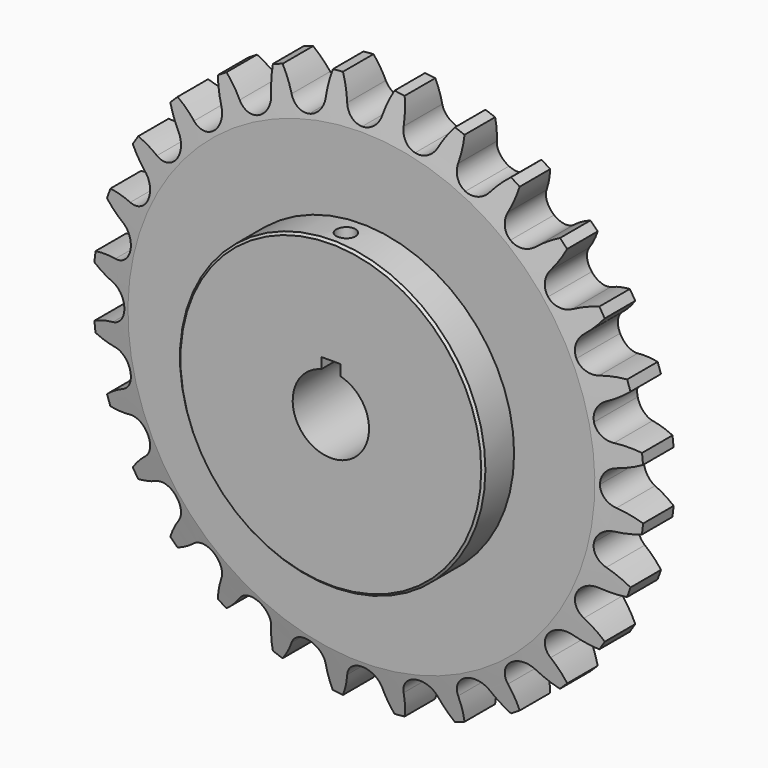
from build123d import *

# Parameters (mm, degrees)
F1_DEPTH  = 9.398
F5_R      = 50.8
F6_DEPTH  = 12.7
F8_DEPTH  = 50.8
F9_SIZE   = 0.762
F10_R     = 3.175
F11_DEPTH = 101.6


with BuildPart() as f1:
    # F0 (on Front) → F1 (new body, symmetric)
    with BuildSketch(Plane.XZ):
        with BuildLine():
            ThreePointArc((12.96248, 82.944234), (12.711263, 86.939421), (11.961569, 90.871671))
            ThreePointArc((11.961569, 90.871671), (10.270424, 91.09503), (8.575362, 91.286402))
            ThreePointArc((8.575362, 91.286402), (6.959333, 87.604769), (5.819345, 83.749073))
            ThreePointArc((5.819345, 83.749073), (3.721611, 80.410548), (0, 79.1083))
            ThreePointArc((0, 79.1083), (-3.721611, 80.410548), (-5.819345, 83.749073))
            ThreePointArc((-5.819345, 83.749073), (-6.953276, 87.58819), (-8.559182, 91.255027))
            ThreePointArc((-8.559182, 91.255027), (-10.257628, 91.096471), (-11.952775, 90.905859))
            ThreePointArc((-11.952775, 90.905859), (-12.709047, 86.956932), (-12.96248, 82.944234))
            ThreePointArc((-12.96248, 82.944234), (-14.264728, 79.222624), (-17.603253, 77.12489))
            ThreePointArc((-17.603253, 77.12489), (-21.521332, 77.566351), (-24.309363, 80.354382))
            ThreePointArc((-24.309363, 80.354382), (-26.269149, 83.844922), (-28.650739, 87.062476))
            ThreePointArc((-28.650739, 87.062476), (-30.27132, 86.529956), (-31.881551, 85.966917))
            ThreePointArc((-31.881551, 85.966917), (-31.740143, 81.948711), (-31.094312, 77.980226))
            ThreePointArc((-31.094312, 77.980226), (-31.535774, 74.062147), (-34.323805, 71.274115))
            ThreePointArc((-34.323805, 71.274115), (-38.241884, 70.832654), (-41.580409, 72.930388))
            ThreePointArc((-41.580409, 72.930388), (-44.267777, 75.897319), (-47.305629, 78.504249))
            ThreePointArc((-47.305629, 78.504249), (-48.767081, 77.624467), (-50.211653, 76.717234))
            ThreePointArc((-50.211653, 76.717234), (-49.179655, 72.83124), (-47.666946, 69.105964))
            ThreePointArc((-47.666946, 69.105964), (-47.225484, 65.187884), (-49.323218, 61.849359))
            ThreePointArc((-49.323218, 61.849359), (-53.044829, 60.547112), (-56.76644, 61.849359))
            ThreePointArc((-56.76644, 61.849359), (-60.046634, 64.143908), (-63.588417, 66.009491))
            ThreePointArc((-63.588417, 66.009491), (-64.817457, 64.826563), (-66.023932, 63.620629))
            ThreePointArc((-66.023932, 63.620629), (-64.153094, 60.061706), (-61.849359, 56.76644))
            ThreePointArc((-61.849359, 56.76644), (-60.547112, 53.044829), (-61.849359, 49.323218))
            ThreePointArc((-61.849359, 49.323218), (-65.187884, 47.225484), (-69.105964, 47.666946))
            ThreePointArc((-69.105964, 47.666946), (-72.814502, 49.174053), (-76.682616, 50.204741))
            ThreePointArc((-76.682616, 50.204741), (-77.617616, 48.777985), (-78.525496, 47.33382))
            ThreePointArc((-78.525496, 47.33382), (-75.909628, 44.280427), (-72.930388, 41.580409))
            ThreePointArc((-72.930388, 41.580409), (-70.832654, 38.241884), (-71.274115, 34.323805))
            ThreePointArc((-71.274115, 34.323805), (-74.062147, 31.535774), (-77.980226, 31.094312))
            ThreePointArc((-77.980226, 31.094312), (-81.931146, 31.738406), (-85.931629, 31.882516))
            ThreePointArc((-85.931629, 31.882516), (-86.525703, 30.283474), (-87.089464, 28.673495))
            ThreePointArc((-87.089464, 28.673495), (-83.859738, 26.278743), (-80.354382, 24.309363))
            ThreePointArc((-80.354382, 24.309363), (-77.566351, 21.521332), (-77.12489, 17.603253))
            ThreePointArc((-77.12489, 17.603253), (-79.222624, 14.264728), (-82.944234, 12.96248))
            ThreePointArc((-82.944234, 12.96248), (-86.939421, 12.711263), (-90.871671, 11.961569))
            ThreePointArc((-90.871671, 11.961569), (-91.09503, 10.270424), (-91.286402, 8.575362))
            ThreePointArc((-91.286402, 8.575362), (-87.604769, 6.959333), (-83.749073, 5.819345))
            ThreePointArc((-83.749073, 5.819345), (-80.410548, 3.721611), (-79.1083, 0))
            ThreePointArc((-79.1083, 0), (-80.410548, -3.721611), (-83.749073, -5.819345))
            ThreePointArc((-83.749073, -5.819345), (-87.58819, -6.953276), (-91.255027, -8.559182))
            ThreePointArc((-91.255027, -8.559182), (-91.096471, -10.257628), (-90.905859, -11.952775))
            ThreePointArc((-90.905859, -11.952775), (-86.956932, -12.709047), (-82.944234, -12.96248))
            ThreePointArc((-82.944234, -12.96248), (-79.222624, -14.264728), (-77.12489, -17.603253))
            ThreePointArc((-77.12489, -17.603253), (-77.566351, -21.521332), (-80.354382, -24.309363))
            ThreePointArc((-80.354382, -24.309363), (-83.844922, -26.269149), (-87.062476, -28.650739))
            ThreePointArc((-87.062476, -28.650739), (-86.529956, -30.27132), (-85.966917, -31.881551))
            ThreePointArc((-85.966917, -31.881551), (-81.948711, -31.740143), (-77.980226, -31.094312))
            ThreePointArc((-77.980226, -31.094312), (-74.062147, -31.535774), (-71.274115, -34.323805))
            ThreePointArc((-71.274115, -34.323805), (-70.832654, -38.241884), (-72.930388, -41.580409))
            ThreePointArc((-72.930388, -41.580409), (-75.897319, -44.267777), (-78.504249, -47.305629))
            ThreePointArc((-78.504249, -47.305629), (-77.624467, -48.767081), (-76.717234, -50.211653))
            ThreePointArc((-76.717234, -50.211653), (-72.83124, -49.179655), (-69.105964, -47.666946))
            ThreePointArc((-69.105964, -47.666946), (-65.187884, -47.225484), (-61.849359, -49.323218))
            ThreePointArc((-61.849359, -49.323218), (-60.547112, -53.044829), (-61.849359, -56.76644))
            ThreePointArc((-61.849359, -56.76644), (-64.143908, -60.046634), (-66.009491, -63.588417))
            ThreePointArc((-66.009491, -63.588417), (-64.826563, -64.817457), (-63.620629, -66.023932))
            ThreePointArc((-63.620629, -66.023932), (-60.061706, -64.153094), (-56.76644, -61.849359))
            ThreePointArc((-56.76644, -61.849359), (-53.044829, -60.547112), (-49.323218, -61.849359))
            ThreePointArc((-49.323218, -61.849359), (-47.225484, -65.187884), (-47.666946, -69.105964))
            ThreePointArc((-47.666946, -69.105964), (-49.174053, -72.814502), (-50.204741, -76.682616))
            ThreePointArc((-50.204741, -76.682616), (-48.777985, -77.617616), (-47.33382, -78.525496))
            ThreePointArc((-47.33382, -78.525496), (-44.280427, -75.909628), (-41.580409, -72.930388))
            ThreePointArc((-41.580409, -72.930388), (-38.241884, -70.832654), (-34.323805, -71.274115))
            ThreePointArc((-34.323805, -71.274115), (-31.535774, -74.062147), (-31.094312, -77.980226))
            ThreePointArc((-31.094312, -77.980226), (-31.738406, -81.931146), (-31.882516, -85.931629))
            ThreePointArc((-31.882516, -85.931629), (-30.283474, -86.525703), (-28.673495, -87.089464))
            ThreePointArc((-28.673495, -87.089464), (-26.278743, -83.859738), (-24.309363, -80.354382))
            ThreePointArc((-24.309363, -80.354382), (-21.521332, -77.566351), (-17.603253, -77.12489))
            ThreePointArc((-17.603253, -77.12489), (-14.264728, -79.222624), (-12.96248, -82.944234))
            ThreePointArc((-12.96248, -82.944234), (-12.711263, -86.939421), (-11.961569, -90.871671))
            ThreePointArc((-11.961569, -90.871671), (-10.270424, -91.09503), (-8.575362, -91.286402))
            ThreePointArc((-8.575362, -91.286402), (-6.959333, -87.604769), (-5.819345, -83.749073))
            ThreePointArc((-5.819345, -83.749073), (-3.721611, -80.410548), (0, -79.1083))
            ThreePointArc((0, -79.1083), (3.721611, -80.410548), (5.819345, -83.749073))
            ThreePointArc((5.819345, -83.749073), (6.953276, -87.58819), (8.559182, -91.255027))
            ThreePointArc((8.559182, -91.255027), (10.257628, -91.096471), (11.952775, -90.905859))
            ThreePointArc((11.952775, -90.905859), (12.709047, -86.956932), (12.96248, -82.944234))
            ThreePointArc((12.96248, -82.944234), (14.264728, -79.222624), (17.603253, -77.12489))
            ThreePointArc((17.603253, -77.12489), (21.521332, -77.566351), (24.309363, -80.354382))
            ThreePointArc((24.309363, -80.354382), (26.269149, -83.844922), (28.650739, -87.062476))
            ThreePointArc((28.650739, -87.062476), (30.27132, -86.529956), (31.881551, -85.966917))
            ThreePointArc((31.881551, -85.966917), (31.740143, -81.948711), (31.094312, -77.980226))
            ThreePointArc((31.094312, -77.980226), (31.535774, -74.062147), (34.323805, -71.274115))
            ThreePointArc((34.323805, -71.274115), (38.241884, -70.832654), (41.580409, -72.930388))
            ThreePointArc((41.580409, -72.930388), (44.267777, -75.897319), (47.305629, -78.504249))
            ThreePointArc((47.305629, -78.504249), (48.767081, -77.624467), (50.211653, -76.717234))
            ThreePointArc((50.211653, -76.717234), (49.179655, -72.83124), (47.666946, -69.105964))
            ThreePointArc((47.666946, -69.105964), (47.225484, -65.187884), (49.323218, -61.849359))
            ThreePointArc((49.323218, -61.849359), (53.044829, -60.547112), (56.76644, -61.849359))
            ThreePointArc((56.76644, -61.849359), (60.046634, -64.143908), (63.588417, -66.009491))
            ThreePointArc((63.588417, -66.009491), (64.817457, -64.826563), (66.023932, -63.620629))
            ThreePointArc((66.023932, -63.620629), (64.153094, -60.061706), (61.849359, -56.76644))
            ThreePointArc((61.849359, -56.76644), (60.547112, -53.044829), (61.849359, -49.323218))
            ThreePointArc((61.849359, -49.323218), (65.187884, -47.225484), (69.105964, -47.666946))
            ThreePointArc((69.105964, -47.666946), (72.814502, -49.174053), (76.682616, -50.204741))
            ThreePointArc((76.682616, -50.204741), (77.617616, -48.777985), (78.525496, -47.33382))
            ThreePointArc((78.525496, -47.33382), (75.909628, -44.280427), (72.930388, -41.580409))
            ThreePointArc((72.930388, -41.580409), (70.832654, -38.241884), (71.274115, -34.323805))
            ThreePointArc((71.274115, -34.323805), (74.062147, -31.535774), (77.980226, -31.094312))
            ThreePointArc((77.980226, -31.094312), (81.931146, -31.738406), (85.931629, -31.882516))
            ThreePointArc((85.931629, -31.882516), (86.525703, -30.283474), (87.089464, -28.673495))
            ThreePointArc((87.089464, -28.673495), (83.859738, -26.278743), (80.354382, -24.309363))
            ThreePointArc((80.354382, -24.309363), (77.566351, -21.521332), (77.12489, -17.603253))
            ThreePointArc((77.12489, -17.603253), (79.222624, -14.264728), (82.944234, -12.96248))
            ThreePointArc((82.944234, -12.96248), (86.939421, -12.711263), (90.871671, -11.961569))
            ThreePointArc((90.871671, -11.961569), (91.09503, -10.270424), (91.286402, -8.575362))
            ThreePointArc((91.286402, -8.575362), (87.604769, -6.959333), (83.749073, -5.819345))
            ThreePointArc((83.749073, -5.819345), (80.410548, -3.721611), (79.1083, 0))
            ThreePointArc((79.1083, 0), (80.410548, 3.721611), (83.749073, 5.819345))
            ThreePointArc((83.749073, 5.819345), (87.58819, 6.953276), (91.255027, 8.559182))
            ThreePointArc((91.255027, 8.559182), (91.096471, 10.257628), (90.905859, 11.952775))
            ThreePointArc((90.905859, 11.952775), (86.956932, 12.709047), (82.944234, 12.96248))
            ThreePointArc((82.944234, 12.96248), (79.222624, 14.264728), (77.12489, 17.603253))
            ThreePointArc((77.12489, 17.603253), (77.566351, 21.521332), (80.354382, 24.309363))
            ThreePointArc((80.354382, 24.309363), (83.844922, 26.269149), (87.062476, 28.650739))
            ThreePointArc((87.062476, 28.650739), (86.529956, 30.27132), (85.966917, 31.881551))
            ThreePointArc((85.966917, 31.881551), (81.948711, 31.740143), (77.980226, 31.094312))
            ThreePointArc((77.980226, 31.094312), (74.062147, 31.535774), (71.274115, 34.323805))
            ThreePointArc((71.274115, 34.323805), (70.832654, 38.241884), (72.930388, 41.580409))
            ThreePointArc((72.930388, 41.580409), (75.897319, 44.267777), (78.504249, 47.305629))
            ThreePointArc((78.504249, 47.305629), (77.624467, 48.767081), (76.717234, 50.211653))
            ThreePointArc((76.717234, 50.211653), (72.83124, 49.179655), (69.105964, 47.666946))
            ThreePointArc((69.105964, 47.666946), (65.187884, 47.225484), (61.849359, 49.323218))
            ThreePointArc((61.849359, 49.323218), (60.547112, 53.044829), (61.849359, 56.76644))
            ThreePointArc((61.849359, 56.76644), (64.143908, 60.046634), (66.009491, 63.588417))
            ThreePointArc((66.009491, 63.588417), (64.826563, 64.817457), (63.620629, 66.023932))
            ThreePointArc((63.620629, 66.023932), (60.061706, 64.153094), (56.76644, 61.849359))
            ThreePointArc((56.76644, 61.849359), (53.044829, 60.547112), (49.323218, 61.849359))
            ThreePointArc((49.323218, 61.849359), (47.225484, 65.187884), (47.666946, 69.105964))
            ThreePointArc((47.666946, 69.105964), (49.174053, 72.814502), (50.204741, 76.682616))
            ThreePointArc((50.204741, 76.682616), (48.777985, 77.617616), (47.33382, 78.525496))
            ThreePointArc((47.33382, 78.525496), (44.280427, 75.909628), (41.580409, 72.930388))
            ThreePointArc((41.580409, 72.930388), (38.241884, 70.832654), (34.323805, 71.274115))
            ThreePointArc((34.323805, 71.274115), (31.535774, 74.062147), (31.094312, 77.980226))
            ThreePointArc((31.094312, 77.980226), (31.738406, 81.931146), (31.882516, 85.931629))
            ThreePointArc((31.882516, 85.931629), (30.283474, 86.525703), (28.673495, 87.089464))
            ThreePointArc((28.673495, 87.089464), (26.278743, 83.859738), (24.309363, 80.354382))
            ThreePointArc((24.309363, 80.354382), (21.521332, 77.566351), (17.603253, 77.12489))
            ThreePointArc((17.603253, 77.12489), (14.264728, 79.222624), (12.96248, 82.944234))
        make_face()
    extrude(amount=F1_DEPTH, both=True)

    # F2 (on Right) → F4 (revolve, cut)
    with BuildSketch(Plane.YZ):
        Polygon((-10.795729, 71.244314), (-5.400473, 96.009426), (-10.795729, 96.009426), align=None)
        Polygon((10.795729, 71.244314), (10.795729, 96.009426), (5.400473, 96.009426), align=None)
    revolve(axis=Axis((0, -41.343516, 0), (0, -1, 0)), mode=Mode.SUBTRACT)

    # F5 (on face) → F6 (join)
    with BuildSketch(Plane.XZ.offset(9.398)):
        Circle(F5_R)
    extrude(amount=F6_DEPTH)

    # F7 (on Front) → F8 (cut, symmetric)
    with BuildSketch(Plane.XZ):
        with BuildLine():
            Line((-3.175, 15.875), (-3.175, 12.296722))
            ThreePointArc((-3.175, 12.296722), (0, -12.7), (3.175, 12.296722))
            Line((3.175, 12.296722), (3.175, 15.875))
            Line((3.175, 15.875), (-3.175, 15.875))
        make_face()
    extrude(amount=F8_DEPTH, both=True, mode=Mode.SUBTRACT)

    # F9
    f9_edges = [f1.edges().sort_by_distance(p)[0] for p in [
        (-50.8, -22.098, 0),
    ]]
    chamfer(f9_edges, length=F9_SIZE)

    # F10 (on Top) → F11 (cut)
    with BuildSketch(Plane.XY):
        with Locations((0, -15.875)):
            Circle(F10_R)
    extrude(amount=F11_DEPTH, mode=Mode.SUBTRACT)


solid = f1.part
